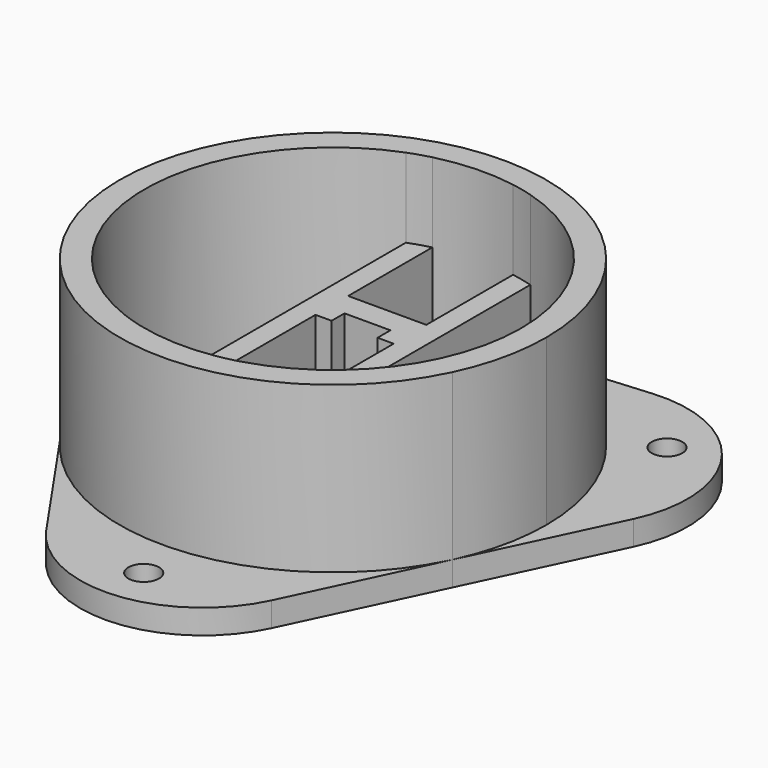
from build123d import *

# Parameters (mm, degrees)
F1_DEPTH = 30.95
F2_DEPTH = 18
F4_DEPTH = 4
F5_DEPTH = 4
F6_D     = 5


with BuildPart() as f1:
    # F0 (on Top) → F1 (new body)
    with BuildSketch(Plane.XY):
        with BuildLine():
            ThreePointArc((31.4718047667, -14.9216086508), (33.9800813715, -7.6474159027), (34.83, 0))
            ThreePointArc((34.83, 0), (23.6128968094, 25.6039060354), (-2.8134110978, 34.7161866857))
            ThreePointArc((-2.8134110978, 34.7161866857), (-31.4718050367, 14.9216080814), (-28.6583943208, -19.7945784232))
            ThreePointArc((-28.6583943208, -19.7945784232), (2.8134104188, -34.7161867407), (31.4718047667, -14.9216086508))
        make_face()
        with BuildLine():
            ThreePointArc((8.6120840205, 29.5037664345), (24.589963678, 18.4383814722), (30.735, 0))
            ThreePointArc((30.735, 0), (24.589963678, -18.4383814722), (8.6120840205, -29.5037664345))
            ThreePointArc((8.6120840205, -29.5037664345), (6.8985351632, -29.9508002832), (5.1620840205, -30.2984011718))
            ThreePointArc((5.1620840205, -30.2984011718), (-1.2450816151, -30.7097703797), (-7.5979159795, -29.7810660952))
            ThreePointArc((-7.5979159795, -29.7810660952), (-9.3391355058, -29.2817481207), (-11.0479159795, -28.6807213562))
            ThreePointArc((-11.0479159795, -28.6807213562), (-30.735, 0), (-11.0479159795, 28.6807213562))
            ThreePointArc((-11.0479159795, 28.6807213562), (-9.3391355058, 29.2817481207), (-7.5979159795, 29.7810660952))
            ThreePointArc((-7.5979159795, 29.7810660952), (-1.2450816151, 30.7097703797), (5.1620840205, 30.2984011718))
            ThreePointArc((5.1620840205, 30.2984011718), (6.8985351632, 29.9508002832), (8.6120840205, 29.5037664345))
        make_face(mode=Mode.SUBTRACT)
    extrude(amount=F1_DEPTH)

    # F0 (on Top) → F2 (join)
    with BuildSketch(Plane.XY):
        with BuildLine():
            Line((8.6120840205, 28.6807213562), (8.6120840205, 29.5037664345))
            ThreePointArc((8.6120840205, 29.5037664345), (6.8985351632, 29.9508002832), (5.1620840205, 30.2984011718))
            Line((5.1620840205, 30.2984011718), (5.1620840205, 12.6006845385))
            Line((5.1620840205, 12.6006845385), (-7.5979159795, 12.6006845385))
            Line((-7.5979159795, 12.6006845385), (-7.5979159795, 29.7810660952))
            ThreePointArc((-7.5979159795, 29.7810660952), (-9.3391355058, 29.2817481207), (-11.0479159795, 28.6807213562))
            Line((-11.0479159795, 28.6807213562), (-11.0479159795, -28.6807213562))
            ThreePointArc((-11.0479159795, -28.6807213562), (-9.3391355058, -29.2817481207), (-7.5979159795, -29.7810660952))
            Line((-7.5979159795, -29.7810660952), (-7.5979159795, -22.835))
            Line((-7.5979159795, -22.835), (5.1620840205, -22.835))
            Line((5.1620840205, -22.835), (5.1620840205, -30.2984011718))
            ThreePointArc((5.1620840205, -30.2984011718), (6.8985351632, -29.9508002832), (8.6120840205, -29.5037664345))
            Line((8.6120840205, -29.5037664345), (8.6120840205, 28.6807213562))
        make_face()
        Polygon((5.1620840205, -17.415), (-7.5979159795, -17.415), (-7.5979159795, 5.935), (-4.9679159795, 5.935), (-4.9679159795, 8.565), (2.5320840205, 8.565), (2.5320840205, 5.935), (5.1620840205, 5.935), align=None, mode=Mode.SUBTRACT)
    extrude(amount=F2_DEPTH)

    # F0 (on Top) → F4 (join)
    with BuildSketch(Plane.XY):
        with BuildLine():
            ThreePointArc((-28.6583943208, -19.7945784232), (-31.4718050367, 14.9216080814), (-2.8134110978, 34.7161866857))
            Line((-2.8134110978, 34.7161866857), (-28.4157888205, 32.6413624978))
            ThreePointArc((-28.4157888205, 32.6413624978), (-44.8719442624, 21.2749669357), (-43.2564346771, 1.3403204934))
            Line((-43.2564346771, 1.3403204934), (-28.6583943208, -19.7945784232))
        make_face()
        with BuildLine():
            ThreePointArc((-2.8134110978, 34.7161866857), (23.6128968094, 25.6039060354), (34.83, 0))
            ThreePointArc((34.83, 0), (33.9800813715, -7.6474159027), (31.4718047667, -14.9216086508))
            Line((31.4718047667, -14.9216086508), (42.4761435474, 8.2881137382))
            ThreePointArc((42.4761435474, 8.2881137382), (40.8606339622, 28.2227601805), (22.7889689351, 36.7910110608))
            Line((22.7889689351, 36.7910110608), (-2.8134110978, 34.7161866857))
        make_face()
    extrude(amount=F4_DEPTH)

    # F0 (on Top) → F5 (join)
    with BuildSketch(Plane.XY):
        with BuildLine():
            Line((20.467465742, -38.1313315542), (31.4718047667, -14.9216086508))
            ThreePointArc((31.4718047667, -14.9216086508), (2.8134104188, -34.7161867407), (-28.6583943208, -19.7945784232))
            Line((-28.6583943208, -19.7945784232), (-14.060354727, -40.929476236))
            ThreePointArc((-14.060354727, -40.929476236), (4.0113103002, -49.4977271163), (20.467465742, -38.1313315542))
        make_face()
    extrude(amount=F5_DEPTH)

    # F6 (through all)
    with Locations(Plane(origin=(0, 0, 0), x_dir=(1, 0, 0), z_dir=(0, 0, -1))):
        with Locations((-37.4550744891, -19.1883724183), (33.4754809737, -26.3264067471), (3.0176348519, 42.3848293722)):
            Hole(F6_D / 2)


solid = f1.part
